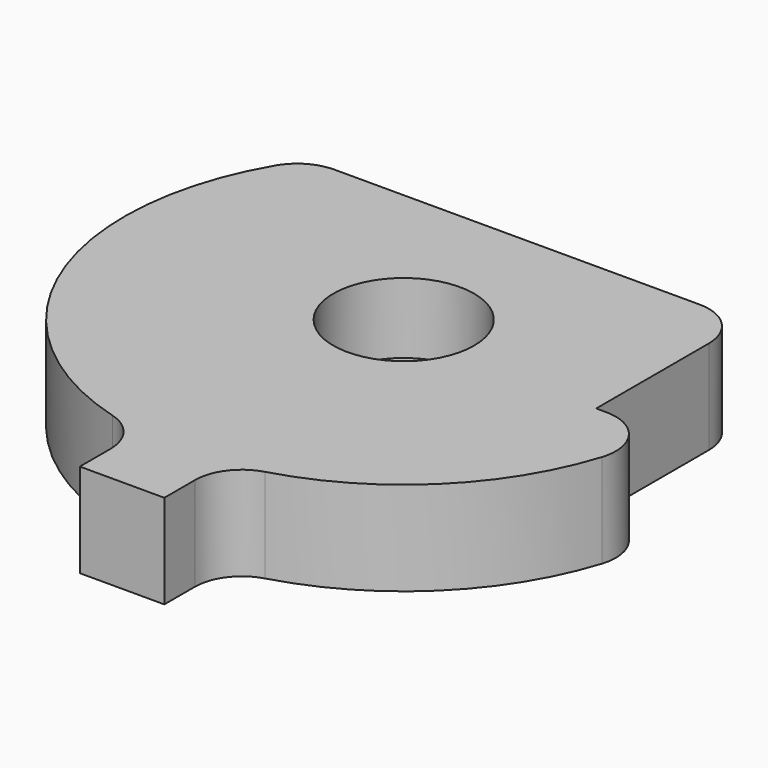
from build123d import *

# Parameters (mm, degrees)
CYLINDER096_R     = 3
CYLINDER096_DEPTH = 3
CYLINDER095_R     = 1.7
CYLINDER095_DEPTH = 4
BOX019_W          = 24
BOX019_H          = 10
BOX019_DEPTH      = 4
BOX020_W          = 24
BOX020_H          = 10
BOX020_DEPTH      = 4
BOX021_W          = 3.6
BOX021_H          = 4
BOX021_DEPTH      = 4
CYLINDER094_R     = 11.9
CYLINDER094_DEPTH = 4
FILLET_R          = 2


with BuildPart() as obj1:
    # Cylinder096 → Cylinder096 (new body)
    with BuildSketch(Plane(origin=(0, -44, 15), x_dir=(1, 0, 0), z_dir=(0, 0, 1))):
        Circle(CYLINDER096_R)
    extrude(amount=CYLINDER096_DEPTH)


with BuildPart() as obj2:
    # Cylinder095 → Cylinder095 (new body)
    with BuildSketch(Plane(origin=(0, -44, 14), x_dir=(1, 0, 0), z_dir=(0, 0, 1))):
        Circle(CYLINDER095_R)
    extrude(amount=CYLINDER095_DEPTH)


with BuildPart() as obj3:
    # Box019 → Box019 (new body)
    with BuildSketch(Plane(origin=(-12, -37, 14), x_dir=(1, 0, 0), z_dir=(0, 0, 1))):
        with Locations((12, 5)):
            Rectangle(BOX019_W, BOX019_H)
    extrude(amount=BOX019_DEPTH)


with BuildPart() as obj4:
    # Box020 → Box020 (new body)
    with BuildSketch(Plane(origin=(9, -45, 14), x_dir=(1, 0, 0), z_dir=(0, 0, 1))):
        with Locations((12, 5)):
            Rectangle(BOX020_W, BOX020_H)
    extrude(amount=BOX020_DEPTH)


with BuildPart() as cubealignment:
    # Box021 → Box021 (new body)
    with BuildSketch(Plane(origin=(-1.8, -59, 14), x_dir=(1, 0, 0), z_dir=(0, 0, 1))):
        with Locations((1.8, 2)):
            Rectangle(BOX021_W, BOX021_H)
    extrude(amount=BOX021_DEPTH)


with BuildPart() as bearingholdertop:
    # Cylinder094 → Cylinder094 (new body)
    with BuildSketch(Plane(origin=(0, -44, 14), x_dir=(1, 0, 0), z_dir=(0, 0, 1))):
        Circle(CYLINDER094_R)
    extrude(amount=CYLINDER094_DEPTH)

    # Fusion033: union CubeAlignment
    add(cubealignment.part)

    # Cut: cut obj4
    add(obj4.part, mode=Mode.SUBTRACT)

    # Cut052: cut obj3
    add(obj3.part, mode=Mode.SUBTRACT)

    # Cut053: cut obj2
    add(obj2.part, mode=Mode.SUBTRACT)

    # Cut054: cut obj1
    add(obj1.part, mode=Mode.SUBTRACT)

    # Fillet
    fillet_edges = [bearingholdertop.edges().sort_by_distance(p)[0] for p in [
        (1.8, -55.763078, 16),
        (-1.8, -55.763078, 16),
        (11.857909, -45, 16),
        (-9.623409, -37, 16),
        (9, -37, 16),
    ]]
    fillet(fillet_edges, radius=FILLET_R)


solid = bearingholdertop.part
